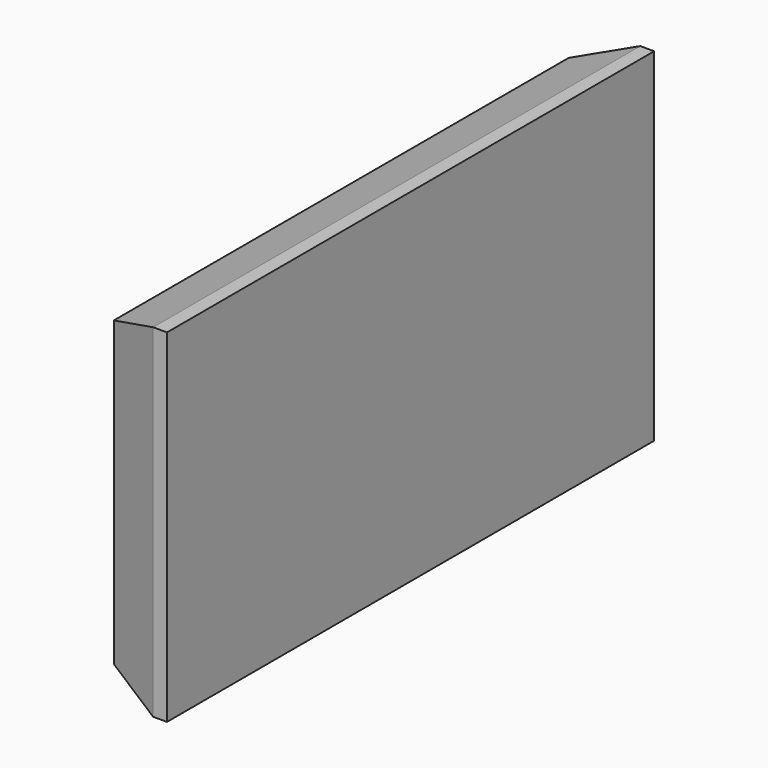
from build123d import *

# Parameters (mm, degrees)
F0_W     = 219.640762
F0_H     = 123.684748
F1_DEPTH = 25
F2_SIZE2 = 7.279405
F2_SIZE  = 20


with BuildPart() as f1:
    # F0 (on Right) → F1 (new body)
    with BuildSketch(Plane.YZ):
        with Locations((55.517316, 54.502905)):
            Rectangle(F0_W, F0_H)
    extrude(amount=F1_DEPTH)

    # F2
    f2_edges = [f1.edges().sort_by_distance(p)[0] for p in [
        (0, 165.337697, 54.502905),
        (0, 55.517316, 116.345279),
        (0, -54.303065, 54.502905),
        (0, 55.517316, -7.339469),
    ]]
    chamfer(f2_edges, length=F2_SIZE, length2=F2_SIZE2)


solid = f1.part
